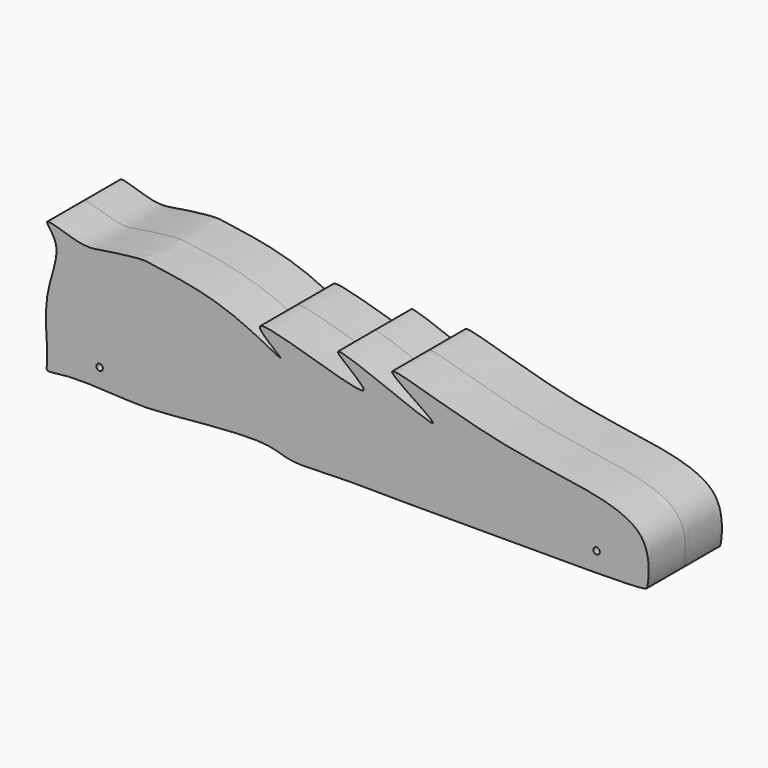
from build123d import *

# Parameters (mm, degrees)
F3_DEPTH = 22.225
F4_START = -92.075
F1_R     = 9.525
F4_DEPTH = 60.325
F2_R     = 1.5875
F5_DEPTH = 25.4


with BuildPart() as f3:
    # F0 (on Front) → F3 (new body, symmetric)
    with BuildSketch(Plane.XZ):
        with BuildLine():
            add(Edge.make_bspline(
                [(-146.05, -27.7956512874), (-145.7075807543, -22.0798198538), (-149.4127461542, 0.8803396123), (-137.353066486, 22.6437384523), (-151.4583956957, 35.2609004301), (-128.8171972076, 26.1408658259), (-119.5018460609, 28.3849833768), (-99.0041630036, 31.0670202152), (-94.2524369687, 29.3482521608), (-60.0978517439, 26.5218633645), (-21.0797376795, 2.4899532273), (-63.0504875047, 32.7090186155), (32.4846009715, -3.8017060834), (-29.0803104485, 35.8307935138), (68.5004822874, -7.9110115032), (-2.0247976599, 33.6695078044), (79.6776023145, 2.0709580695), (150.5090356798, 3.2141504247), (145.4666849904, -29.5477112752), (145.0812343277, -30.2749381989), (144.1634966312, -31.4539538066), (112.4663000088, -31.8151400487), (91.8982099692, -31.7306961778), (67.9025246252, -31.7623637674), (46.7751237501, -31.717872795), (18.8682467991, -31.8812094984), (-6.0395775686, -31.2998000824), (-28.7792219819, -33.1064112805), (-40.0044168026, -26.2405585314), (-92.6290262446, -32.6646676902), (-107.8971127618, -31.8698407318), (-137.0234314211, -30.1870195632), (-147.2558629628, -33.0253125507), (-146.1791538097, -29.9515505677), (-146.05, -27.7956512874)],
                knots=[0, 0, 0, 0, 0.0357895018, 0.0693781636, 0.0892641678, 0.1161232296, 0.140354701, 0.1697067613, 0.1851833005, 0.2269733597, 0.2620964901, 0.2874909471, 0.3361380379, 0.3645918652, 0.4119156601, 0.4453807741, 0.4947565807, 0.5525648343, 0.5826033733, 0.5878048041, 0.5936469194, 0.6302876138, 0.6638722083, 0.6961292585, 0.7276052115, 0.7633022033, 0.7980401864, 0.8289885337, 0.8538403161, 0.9018232972, 0.9313750179, 0.967685553, 0.9865009033, 1, 1, 1, 1], degree=3))
        make_face()
    extrude(amount=F3_DEPTH, both=True)

    # F1 (on Right) → F4 (cut)
    with BuildSketch(Plane.YZ.offset(F4_START)):
        Circle(F1_R)
    extrude(amount=-F4_DEPTH, mode=Mode.SUBTRACT)

    # F2 (on Front) → F5 (cut, symmetric)
    with BuildSketch(Plane.XZ):
        with Locations((-120.65, -22.225)):
            Circle(F2_R)
        with Locations((120.65, -22.225)):
            Circle(F2_R)
    extrude(amount=F5_DEPTH, both=True, mode=Mode.SUBTRACT)


solid = f3.part
